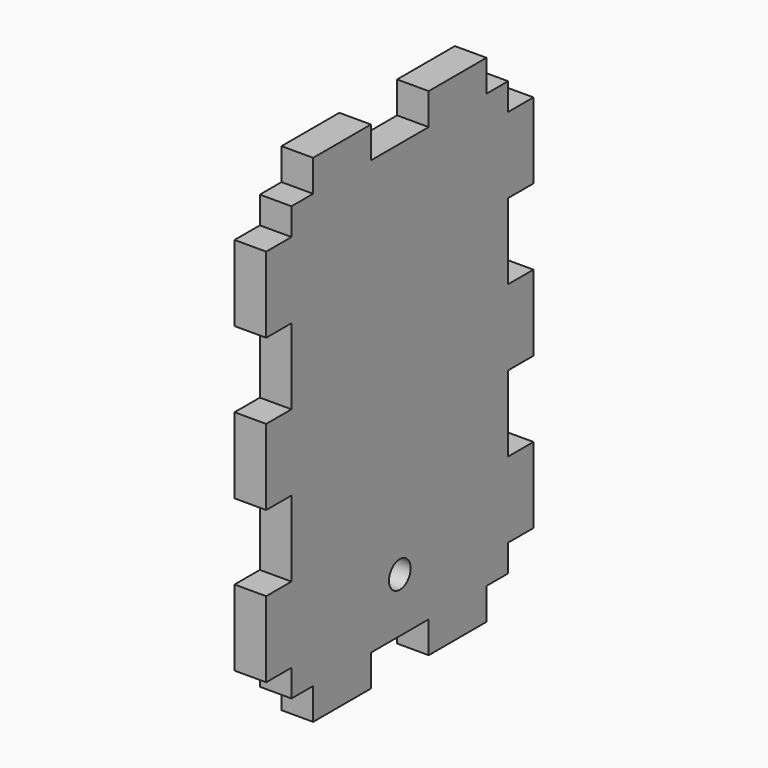
from build123d import *

# Parameters (mm, degrees)
F0_R     = 2.5
F1_DEPTH = 5.842


with BuildPart() as f1:
    # F0 (on Right) → F1 (new body)
    with BuildSketch(Plane.YZ):
        Polygon((-25, -35), (-25, -40), (-20, -40), (-20, -45.842), (-6.666667, -45.842), (-6.666667, -40), (6.666667, -40), (6.666667, -45.842), (20, -45.842), (20, -40), (25, -40), (25, -35), (30.842, -35), (30.842, -21), (25, -21), (25, -7), (30.842, -7), (30.842, 7), (25, 7), (25, 21), (30.842, 21), (30.842, 35), (25, 35), (25, 40), (20, 40), (20, 45.842), (6.666667, 45.842), (6.666667, 40), (-6.666667, 40), (-6.666667, 45.842), (-20, 45.842), (-20, 40), (-25, 40), (-25, 35), (-30.842, 35), (-30.842, 21), (-25, 21), (-25, 7), (-30.842, 7), (-30.842, -7), (-25, -7), (-25, -21), (-30.842, -21), (-30.842, -35), align=None)
        with Locations((0, -30)):
            Circle(F0_R, mode=Mode.SUBTRACT)
    extrude(amount=F1_DEPTH)


solid = f1.part
